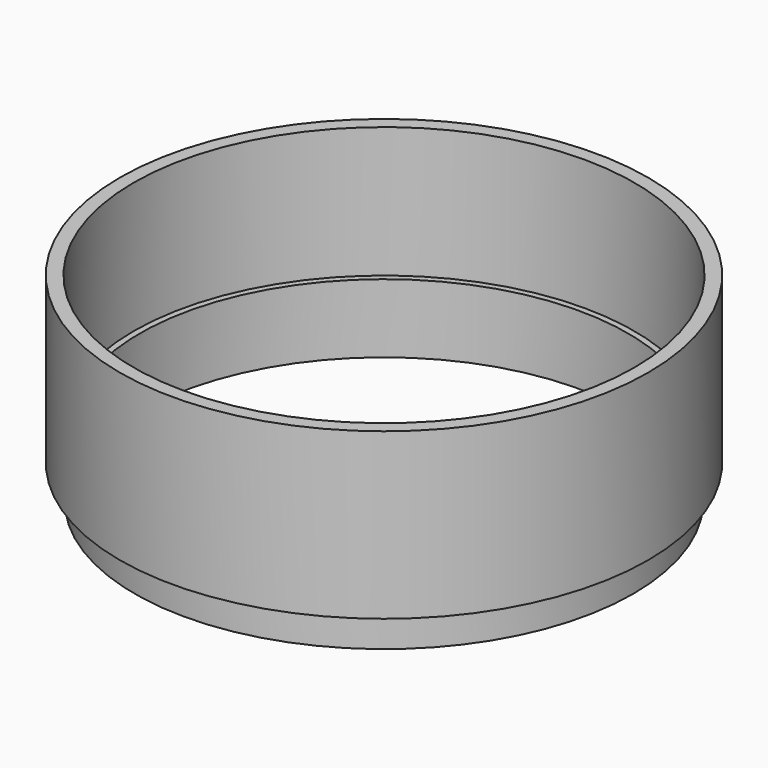
from build123d import *

# Parameters (mm, degrees)
F0_R     = 48.768
F0_R_2   = 46.228
F1_DEPTH = 30.48
F2_R     = 46.228
F2_R_2   = 45.085
F3_DEPTH = 6.35
F4_R     = 46.0375
F4_R_2   = 45.085
F5_DEPTH = 6.35


with BuildPart() as f1:
    # F0 (on Top) → F1 (new body)
    with BuildSketch(Plane.XY):
        Circle(F0_R)
        Circle(F0_R_2, mode=Mode.SUBTRACT)
    extrude(amount=F1_DEPTH)


with BuildPart() as f3:
    # F2 (on Top) → F3 (new body)
    with BuildSketch(Plane.XY):
        Circle(F2_R)
        Circle(F2_R_2, mode=Mode.SUBTRACT)
    extrude(amount=F3_DEPTH)

    # F4 (on face) → F5 (join)
    with BuildSketch(Plane(origin=(0, 0, 0), x_dir=(1, 0, 0), z_dir=(0, 0, -1))):
        Circle(F4_R)
        Circle(F4_R_2, mode=Mode.SUBTRACT)
    extrude(amount=F5_DEPTH)


solid = Compound([f1.part, f3.part])
